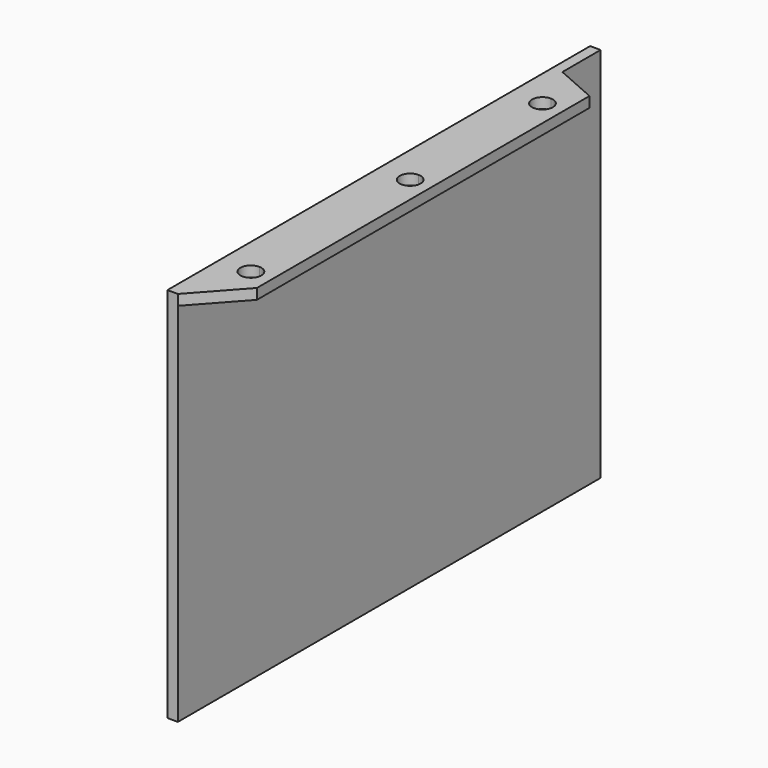
from build123d import *

# Parameters (mm, degrees)
F0_W     = 3.175
F0_H     = 160.30702
F1_DEPTH = 114.3
F2_W     = 145.818248
F2_H     = 3.175
F3_DEPTH = 12.7
F5_DEPTH = 25.4
F7_DEPTH = 25.4


with BuildPart() as f1:
    # F0 (on Top) → F1 (new body)
    with BuildSketch(Plane.XY):
        Rectangle(F0_W, F0_H)
    extrude(amount=F1_DEPTH)

    # F2 (on face) → F3 (join)
    with BuildSketch(Plane.YZ.offset(1.5875)):
        with Locations((-7.244386, 112.7125)):
            Rectangle(F2_W, F2_H)
    extrude(amount=F3_DEPTH)

    # F4 (on face) → F5 (cut)
    with BuildSketch(Plane.XY.offset(114.3)):
        Polygon((14.2875, 65.664738), (1.5875, 65.664738), (14.2875, 60.06493), align=None)
        Polygon((1.5875, -80.15351), (14.2875, -80.15351), (14.2875, -66.047616), align=None)
    extrude(amount=-F5_DEPTH, mode=Mode.SUBTRACT)

    # F6 (on face) → F7 (cut)
    with BuildSketch(Plane.XY.offset(114.3)):
        with BuildLine():
            ThreePointArc((11.1125, 50.164834), (10.182564, 52.409898), (7.9375, 53.339834))
            Line((7.9375, 53.339834), (7.9375, 46.989834))
            ThreePointArc((7.9375, 46.989834), (10.182564, 47.91977), (11.1125, 50.164834))
        make_face()
        with BuildLine():
            ThreePointArc((11.1125, -60.400563), (10.182564, -58.155499), (7.9375, -57.225563))
            Line((7.9375, -57.225563), (7.9375, -63.575563))
            ThreePointArc((7.9375, -63.575563), (10.182564, -62.645627), (11.1125, -60.400563))
        make_face()
        with BuildLine():
            Line((7.9375, -63.575563), (7.9375, -57.225563))
            ThreePointArc((7.9375, -57.225563), (4.7625, -60.400563), (7.9375, -63.575563))
        make_face()
        with BuildLine():
            ThreePointArc((11.1125, 0), (10.182564, 2.245064), (7.9375, 3.175))
            Line((7.9375, 3.175), (7.9375, -3.175))
            ThreePointArc((7.9375, -3.175), (10.182564, -2.245064), (11.1125, 0))
        make_face()
        with BuildLine():
            Line((7.9375, -3.175), (7.9375, 3.175))
            ThreePointArc((7.9375, 3.175), (4.7625, 0), (7.9375, -3.175))
        make_face()
        with BuildLine():
            Line((7.9375, 46.989834), (7.9375, 53.339834))
            ThreePointArc((7.9375, 53.339834), (4.7625, 50.164834), (7.9375, 46.989834))
        make_face()
    extrude(amount=-F7_DEPTH, mode=Mode.SUBTRACT)


solid = f1.part
